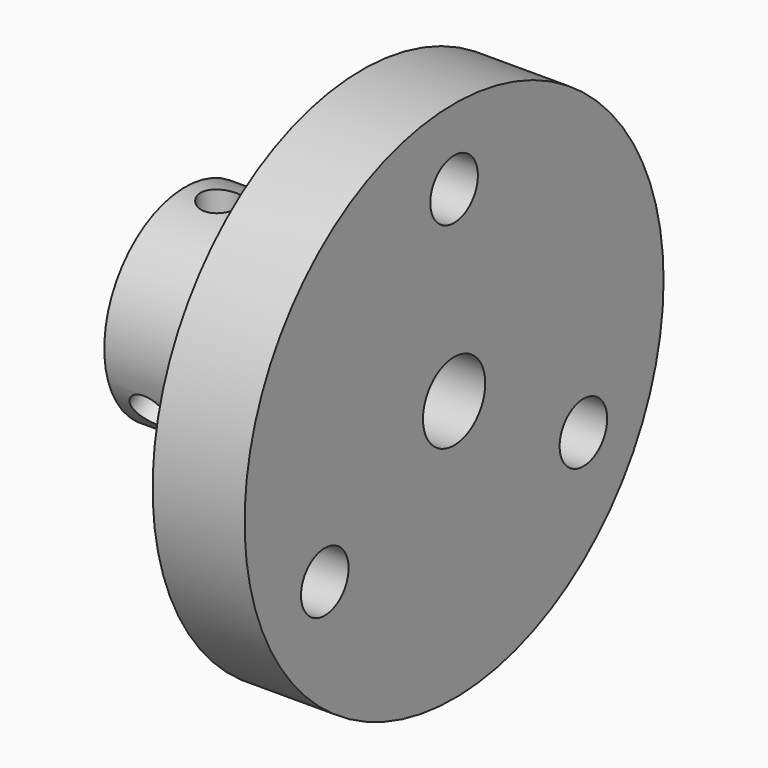
from build123d import *

# Parameters (mm, degrees)
CYLINDER_R              = 2.8
CYLINDER_DEPTH          = 100
ARRAY_COUNT             = 3
CYLINDER001_R           = 5.5
CYLINDER001_DEPTH       = 38
CYLINDER001_PITCH_ANGLE = -90
SKETCH003_W             = 6
SKETCH003_H             = 20
POCKET_DEPTH            = 10
SKETCH002_R             = 4.2
PAD_DEPTH               = 38


with BuildPart() as set_screw_array:
    # Cylinder → Cylinder (new body)
    with BuildSketch(Plane(origin=(-33, 0, 0), x_dir=(1, 0, 0), z_dir=(0, 0, 1))):
        Circle(CYLINDER_R)
    extrude(amount=CYLINDER_DEPTH)

    # Array: Set Screw Array ×3 about axis
    array_axis = Axis((0, 0, 0), (1, 0, 0))


with BuildPart() as set_screw_array_1:
    add(set_screw_array.part)
    for i in range(1, ARRAY_COUNT):
        add(set_screw_array.part.rotate(array_axis, i * 360 / ARRAY_COUNT))


with BuildPart() as pocket:
    # Cylinder001 → Cylinder001 (new body)
    with BuildSketch(Plane.XY):
        Circle(CYLINDER001_R)
    extrude(amount=CYLINDER001_DEPTH)


with BuildPart() as pocket_1:
    # Cylinder001 pitch: moved
    add(pocket.part.rotate(Axis((0, 0, 0), (0, 1, 0)), CYLINDER001_PITCH_ANGLE))


with BuildPart() as pocket_2:
    # Cylinder001 placement: moved
    add(pocket_1.part)

    # Sketch003 → Pocket (cut)
    with BuildSketch(Plane.ZY.offset(38)):
        with Locations((7.1, 0)):
            Rectangle(SKETCH003_W, SKETCH003_H)
    extrude(amount=-POCKET_DEPTH, mode=Mode.SUBTRACT)


with BuildPart() as pad:
    # Sketch002 → Pad (new body)
    with BuildSketch(Plane.YZ):
        with Locations((0, 26.3725)):
            Circle(SKETCH002_R)
        with Locations((-22.839255, -13.18625)):
            Circle(SKETCH002_R)
        with Locations((22.839255, -13.18625)):
            Circle(SKETCH002_R)
    extrude(amount=-PAD_DEPTH)


with BuildPart() as cut002:
    # Sketch → Revolution (revolve)
    with BuildSketch(Plane.XY):
        Polygon((0, 37), (-13, 37), (-13, 14.2875), (-38, 14.2875), (-38, 0), (0, 0), align=None)
    revolve(axis=Axis((0, 0, 0), (1, 0, 0)))

    # Cut: cut Pad
    add(pad.part, mode=Mode.SUBTRACT)

    # Cut001: cut Pocket
    add(pocket_2.part, mode=Mode.SUBTRACT)

    # Cut002: cut Set Screw Array
    add(set_screw_array_1.part, mode=Mode.SUBTRACT)


solid = cut002.part
